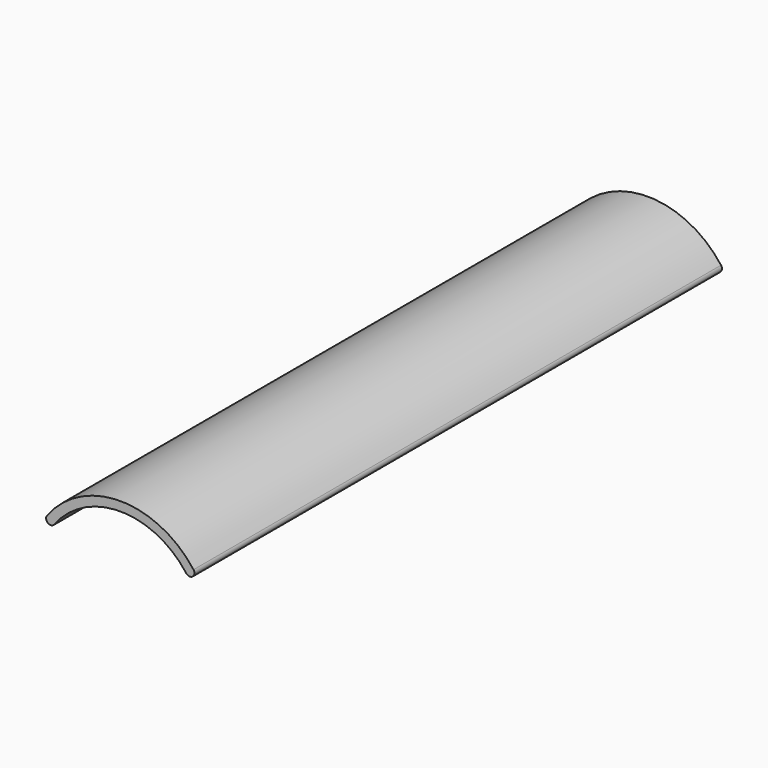
from build123d import *

# Parameters (mm, degrees)
F1_DEPTH = 228.6


with BuildPart() as f1:
    # F0 (on Front) → F1 (new body)
    with BuildSketch(Plane.XZ):
        with BuildLine():
            ThreePointArc((48.26, -1.905), (50.4825, -2.2225), (50.8, 0))
            ThreePointArc((50.8, 0), (25.4, 12.7), (0, 0))
            ThreePointArc((0, 0), (0.3175, -2.2225), (2.54, -1.905))
            ThreePointArc((2.54, -1.905), (25.4, 9.525), (48.26, -1.905))
        make_face()
    extrude(amount=-F1_DEPTH)


solid = f1.part
